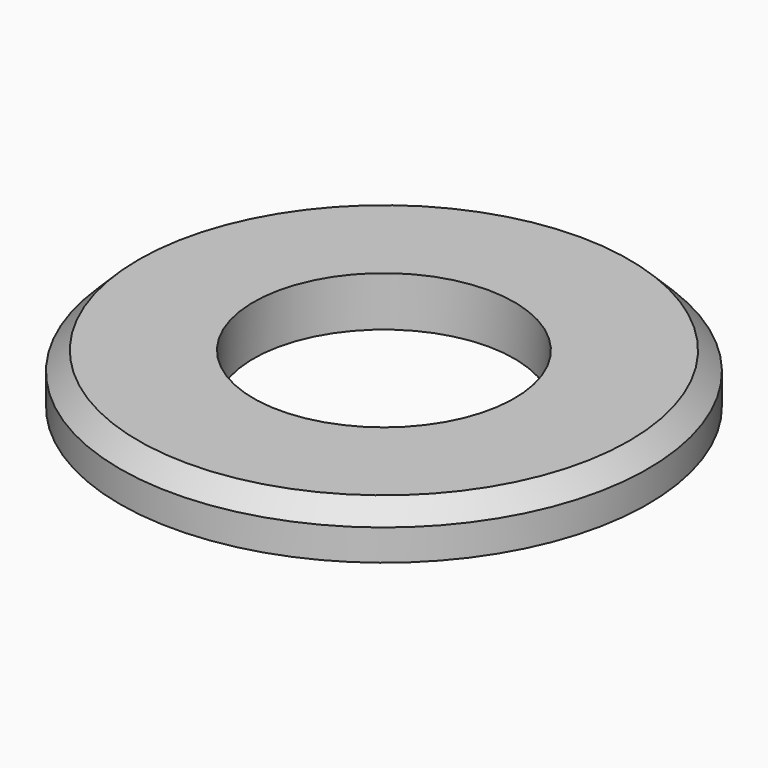
from build123d import *


with BuildPart() as part:
    # Sketch → Revolution (revolve)
    with BuildSketch(Plane.YZ):
        Polygon((4.2, 0), (8.5, 0), (8.5, 1), (7.9, 1.6), (4.2, 1.6), align=None)
    revolve(axis=Axis((0, 0, 0), (0, 0, 1)))


solid = part.part
